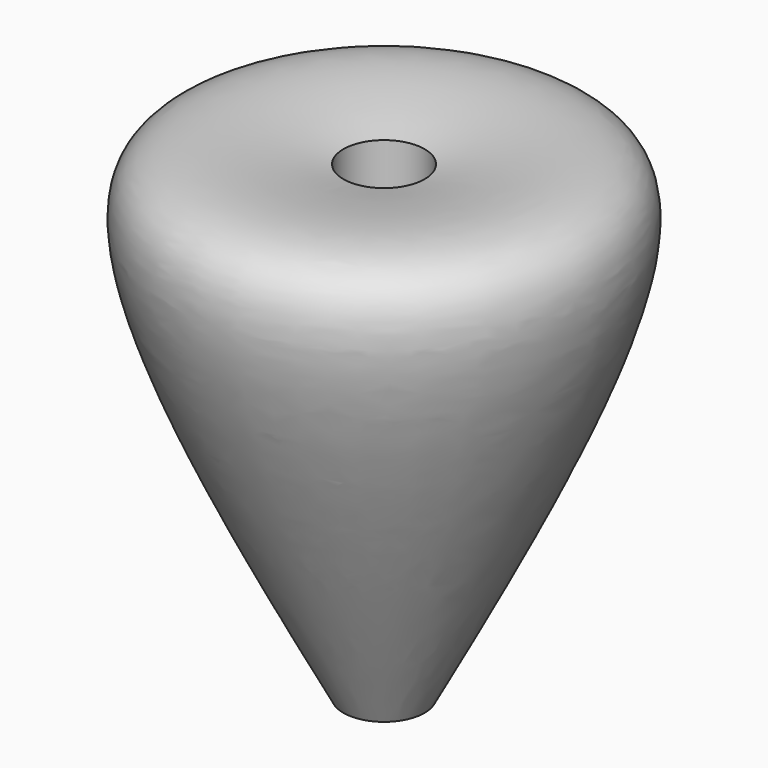
from build123d import *

# Parameters (mm, degrees)
F2_R          = 8
F3_DEPTH      = 61.7628822561
F3_DEPTH_BACK = 48.4726215019


with BuildPart() as f1:
    # F0 (on Right) → F1 (revolve)
    with BuildSketch(Plane.YZ):
        with BuildLine():
            Line((0, -61.7618821561), (0, 43.9099669456))
            add(Edge.make_bspline(
                [(0, 43.9099669456), (-17.5850925134, 47.8604755881), (-64.5342656303, 58.4076543426), (-24.8317203798, -15.5226277173), (0, -61.7618821561)],
                knots=[0, 0, 0, 0, 0.374555958, 1, 1, 1, 1], degree=3))
        make_face()
    revolve(axis=Axis((0, 0, -8.9259576052), (0, 0, -1)))

    # F2 (on Top) → F3 (cut, two sides)
    with BuildSketch(Plane.XY) as f3_sk:
        Circle(F2_R)
    extrude(amount=-F3_DEPTH, mode=Mode.SUBTRACT)
    extrude(f3_sk.sketch, amount=F3_DEPTH_BACK, mode=Mode.SUBTRACT)


solid = f1.part
